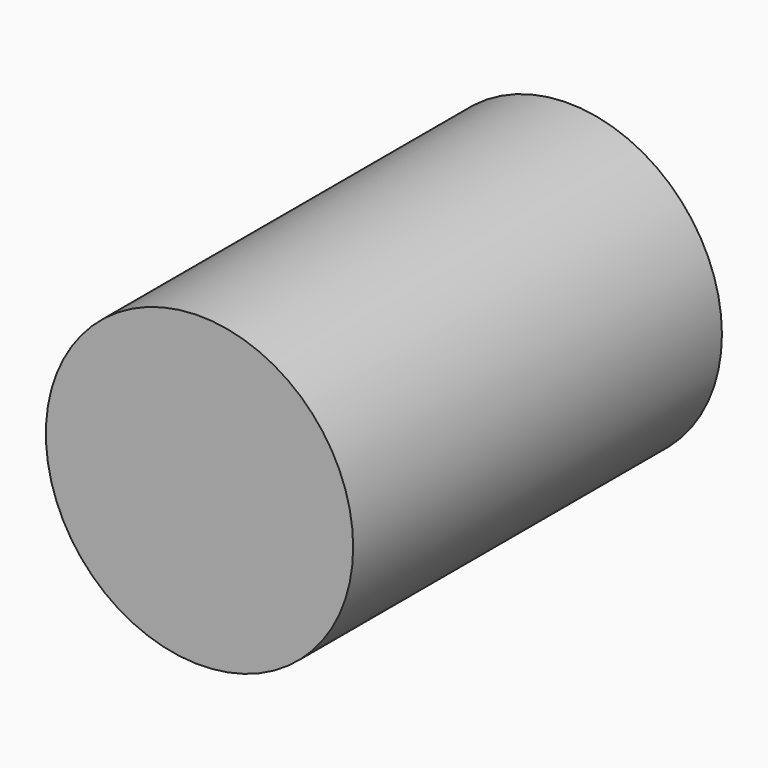
from build123d import *

# Parameters (mm, degrees)
F0_R     = 100
F1_DEPTH = 300


with BuildPart() as f1:
    # F0 (on Front) → F1 (new body)
    with BuildSketch(Plane.XZ):
        Circle(F0_R)
    extrude(amount=F1_DEPTH)

    # F2 (on Top) → F3 (revolve, cut)
    with BuildSketch(Plane.XY):
        with BuildLine():
            Line((0, -145.0593271967), (0.9317533113, 32.4322865929))
            ThreePointArc((0.9317533113, 32.4322865929), (-87.8152763994, -55.8500828756), (0, -145.0593271967))
        make_face()
    revolve(axis=Axis((0.4658766557, -56.3135203019, 0), (0.0052494901, 0.9999862213, 0)), mode=Mode.SUBTRACT)


solid = f1.part
